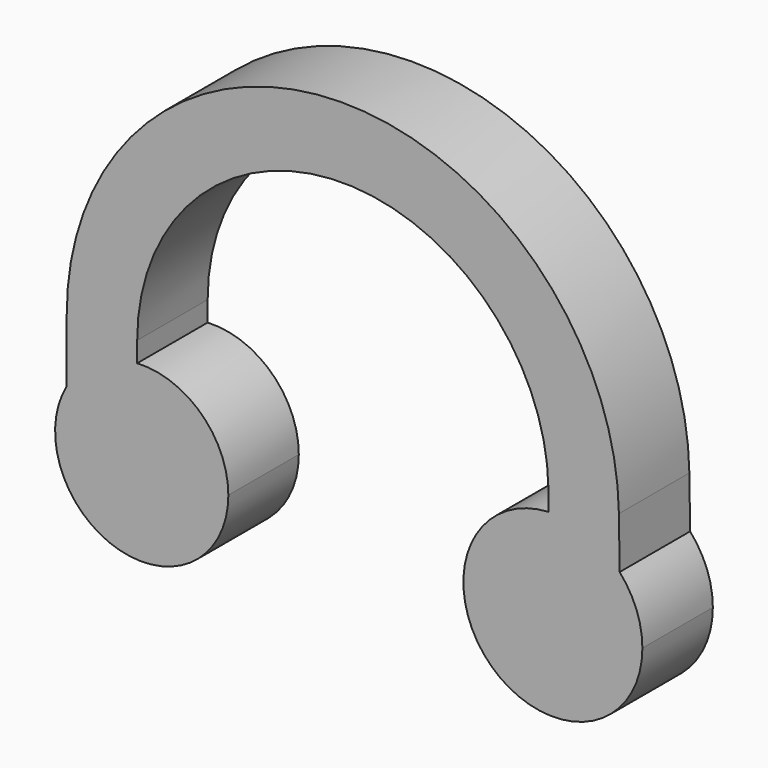
from build123d import *

# Parameters (mm, degrees)
F1_DEPTH = 25.4


with BuildPart() as f1:
    # F0 (on Front) → F1 (new body)
    with BuildSketch(Plane.XZ):
        with BuildLine():
            ThreePointArc((-89.08151, 23.215859), (-73.927081, -13.413316), (-42.474968, 10.713801))
            ThreePointArc((-42.474968, 10.713801), (-50.259571, 28.833407), (-68.761512, 35.659704))
            ThreePointArc((-68.761512, 35.659704), (-80.500818, 32.016689), (-89.08151, 23.215859))
        make_face()
        with BuildLine():
            ThreePointArc((-89.08151, 23.215859), (-80.500818, 32.016689), (-68.761512, 35.659704))
            Line((-68.761512, 35.659704), (-68.761512, 41.479227))
            ThreePointArc((-68.761512, 41.479227), (-9.89729, 100.779416), (49.835637, 42.354366))
            Line((49.835637, 42.354366), (49.835637, 36.492049))
            ThreePointArc((49.835637, 36.492049), (61.077606, 34.522835), (70.371209, 27.897986))
            Line((70.371209, 27.897986), (70.153422, 42.654235))
            ThreePointArc((70.153422, 42.654235), (-10.047229, 121.098861), (-89.08151, 41.479227))
            Line((-89.08151, 41.479227), (-89.08151, 23.215859))
        make_face()
        with BuildLine():
            ThreePointArc((70.371209, 27.897986), (61.077606, 34.522835), (49.835637, 36.492049))
            ThreePointArc((49.835637, 36.492049), (33.320821, -7.982932), (76.923518, 10.713801))
            ThreePointArc((76.923518, 10.713801), (75.229873, 19.909302), (70.371209, 27.897986))
        make_face()
    extrude(amount=F1_DEPTH)


solid = f1.part
